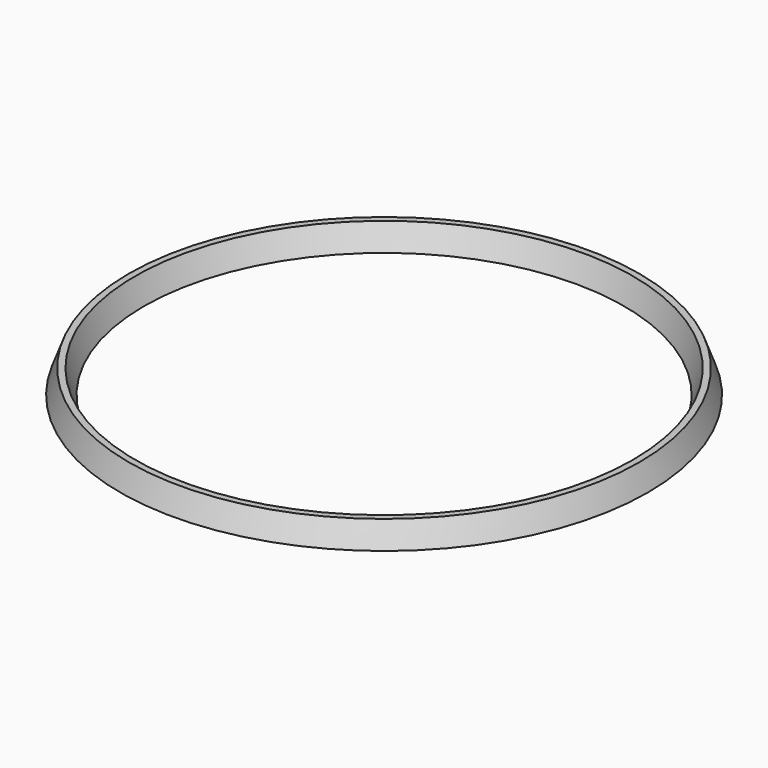
from build123d import *

# Parameters (mm, degrees)
F0_R     = 44.45
F0_R_2   = 40.45
F1_DEPTH = 4
F1_TAPER = 20


with BuildPart() as f1:
    # F0 (on Top) → F1 (new body)
    with BuildSketch(Plane.XY):
        Circle(F0_R)
        Circle(F0_R_2, mode=Mode.SUBTRACT)
    extrude(amount=F1_DEPTH, taper=F1_TAPER)


solid = f1.part
